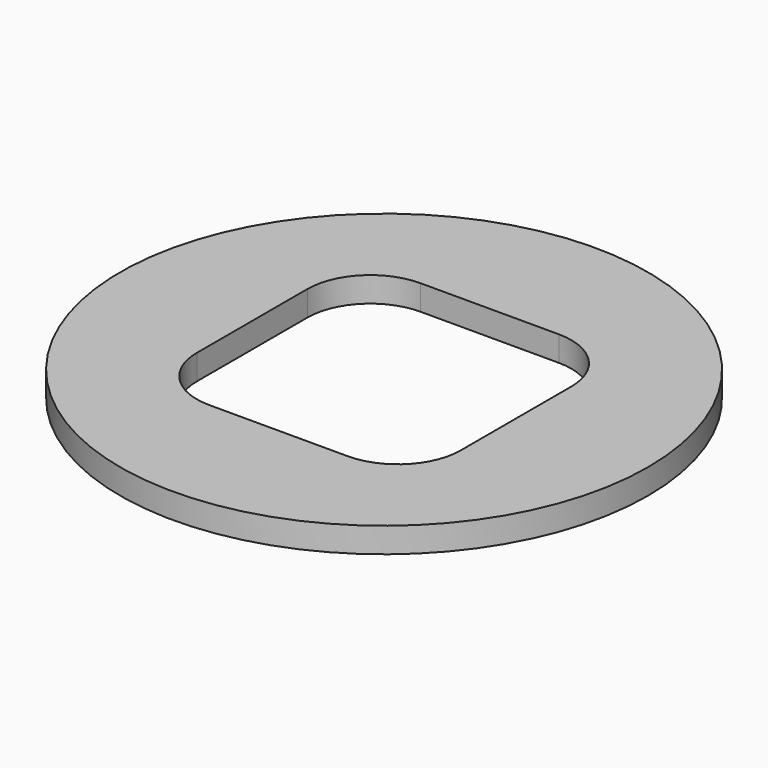
from build123d import *

# Parameters (mm, degrees)
F0_R     = 21
F1_DEPTH = 2


with BuildPart() as f1:
    # F0 (on Top) → F1 (new body)
    with BuildSketch(Plane.XY):
        Circle(F0_R)
        with BuildLine():
            Line((5.5, -10.5), (-5.5, -10.5))
            ThreePointArc((-5.5, -10.5), (-9.035534, -9.035534), (-10.5, -5.5))
            Line((-10.5, -5.5), (-10.5, 5.5))
            ThreePointArc((-10.5, 5.5), (-9.035534, 9.035534), (-5.5, 10.5))
            Line((-5.5, 10.5), (5.5, 10.5))
            ThreePointArc((5.5, 10.5), (9.035534, 9.035534), (10.5, 5.5))
            Line((10.5, 5.5), (10.5, -5.5))
            ThreePointArc((10.5, -5.5), (9.035534, -9.035534), (5.5, -10.5))
        make_face(mode=Mode.SUBTRACT)
    extrude(amount=F1_DEPTH)


solid = f1.part
